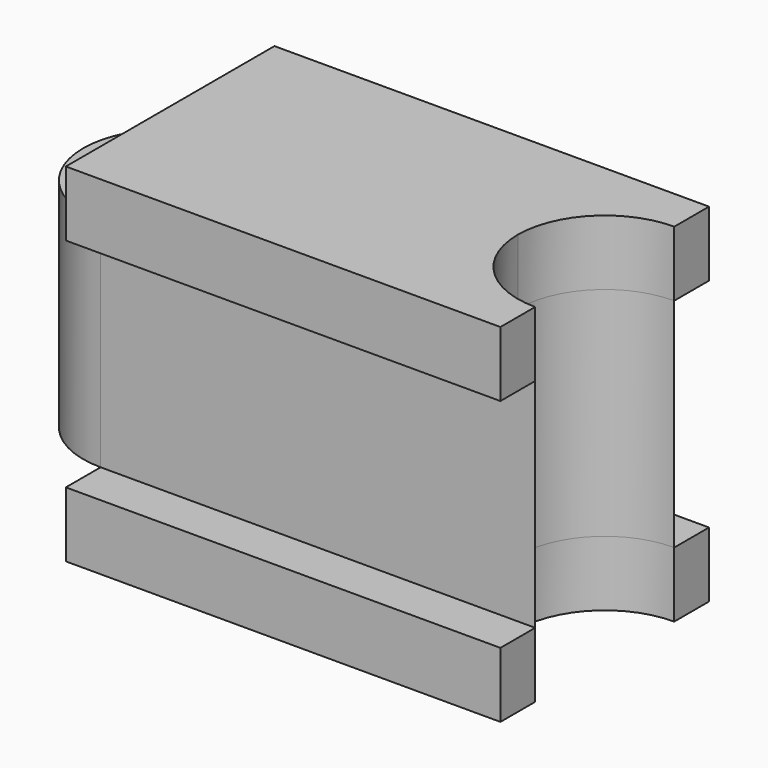
from build123d import *

# Parameters (mm, degrees)
F1_DEPTH = 5
F3_DEPTH = 1.5


with BuildPart() as f1:
    # F0 (on Top) → F1 (new body, symmetric)
    with BuildSketch(Plane.XY):
        with BuildLine():
            ThreePointArc((0, -4), (2.828427, -2.828427), (4, 0))
            ThreePointArc((4, 0), (2.828427, 2.828427), (0, 4))
            ThreePointArc((0, 4), (-4, 0), (0, -4))
        make_face()
        with BuildLine():
            Line((16, 0), (4, 0))
            ThreePointArc((4, 0), (2.828427, -2.828427), (0, -4))
            Line((0, -4), (20, -4))
            ThreePointArc((20, -4), (17.171573, -2.828427), (16, 0))
        make_face()
        with BuildLine():
            ThreePointArc((0, 4), (2.828427, 2.828427), (4, 0))
            Line((4, 0), (16, 0))
            ThreePointArc((16, 0), (17.171573, 2.828427), (20, 4))
            Line((20, 4), (0, 4))
        make_face()
    extrude(amount=F1_DEPTH, both=True)


with BuildPart() as f3:
    # F2 (on Top) → F3 (new body, symmetric)
    with BuildSketch(Plane.XY):
        with BuildLine():
            Line((0, 6), (0, 0))
            Line((0, 0), (16, 0))
            ThreePointArc((16, 0), (17.171573, 2.828427), (20, 4))
            Line((20, 4), (20, 6))
            Line((20, 6), (0, 6))
        make_face()
        with BuildLine():
            Line((16, 0), (0, 0))
            Line((0, 0), (0, -6))
            Line((0, -6), (20, -6))
            Line((20, -6), (20, -4))
            ThreePointArc((20, -4), (17.171573, -2.828427), (16, 0))
        make_face()
    extrude(amount=F3_DEPTH, both=True)


with BuildPart() as f4_1:
    # F4: copy of F3
    add(f3.part.moved(Location((0, 0, 6.5))))


with BuildPart() as f3_1:
    # F5: moved
    add(f3.part.moved(Location((0, 0, -6.5))))


solid = Compound([f1.part, f4_1.part, f3_1.part])
